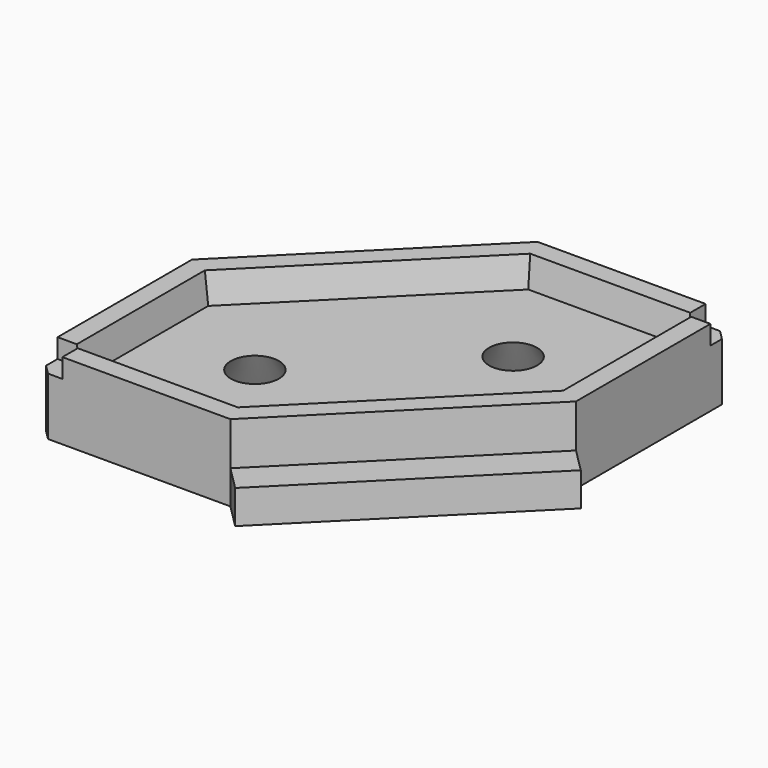
from build123d import *

# Parameters (mm, degrees)
F1_DEPTH  = 8
F3_DEPTH  = 3
F3_TAPER  = 10
F4_SIZE   = 1
F5_W      = 2.5
F5_H      = 2.5
F6_DEPTH  = 2
F7_R      = 2.5
F8_DEPTH  = 5
F8_TAPER  = -30
F9_W      = 28.2842712475
F9_H      = 3.5
F10_DEPTH = 3.5
F11_W     = 28.2842712475
F11_H     = 3.5
F12_DEPTH = 3.5


with BuildPart() as f1:
    # F0 (on Top) → F1 (new body)
    with BuildSketch(Plane.XY):
        Polygon((0, 20), (0, 0), (20, 0), (40, 20), (40, 40), (20, 40), align=None)
    extrude(amount=F1_DEPTH)

    # F2 (on face) → F3 (cut)
    with BuildSketch(Plane.XY.offset(8)):
        Polygon((2, 19.1715728753), (2, 2), (19.1715728753, 2), (38, 20.8284271247), (38, 38), (20.8284271247, 38), align=None)
    extrude(amount=-F3_DEPTH, taper=F3_TAPER, mode=Mode.SUBTRACT)

    # F4
    f4_edges = [f1.edges().sort_by_distance(p)[0] for p in [
        (0, 0, 4),
        (40, 40, 4),
    ]]
    chamfer(f4_edges, length=F4_SIZE)

    # F5 (on face) → F6 (cut)
    with BuildSketch(Plane.XY.offset(8)):
        with Locations((1.25, 1.25)):
            Rectangle(F5_W, F5_H)
        with Locations((38.75, 38.75)):
            Rectangle(F5_W, F5_H)
    extrude(amount=-F6_DEPTH, mode=Mode.SUBTRACT)

    # F7 (on face) → F8 (cut, through all)
    with BuildSketch(Plane.XY.offset(5)):
        with Locations((12.5289809421, 12.5289809421)):
            Circle(F7_R)
        with Locations((27.4710190579, 27.4710190579)):
            Circle(F7_R)
    extrude(amount=-F8_DEPTH, taper=F8_TAPER, mode=Mode.SUBTRACT)

    # F9 (on face) → F10 (join)
    with BuildSketch(Plane(origin=(10, -10, 0), x_dir=(0.7071067812, 0.7071067812, 0), z_dir=(0.7071067812, -0.7071067812, 0))):
        with Locations((28.2842712475, 1.75)):
            Rectangle(F9_W, F9_H)
    extrude(amount=F10_DEPTH)

    # F11 (on face) → F12 (join)
    with BuildSketch(Plane(origin=(-10, 10, 0), x_dir=(-0.7071067812, -0.7071067812, 0), z_dir=(-0.7071067812, 0.7071067812, 0))):
        with Locations((-28.2842712475, 1.75)):
            Rectangle(F11_W, F11_H)
    extrude(amount=F12_DEPTH)


solid = f1.part
